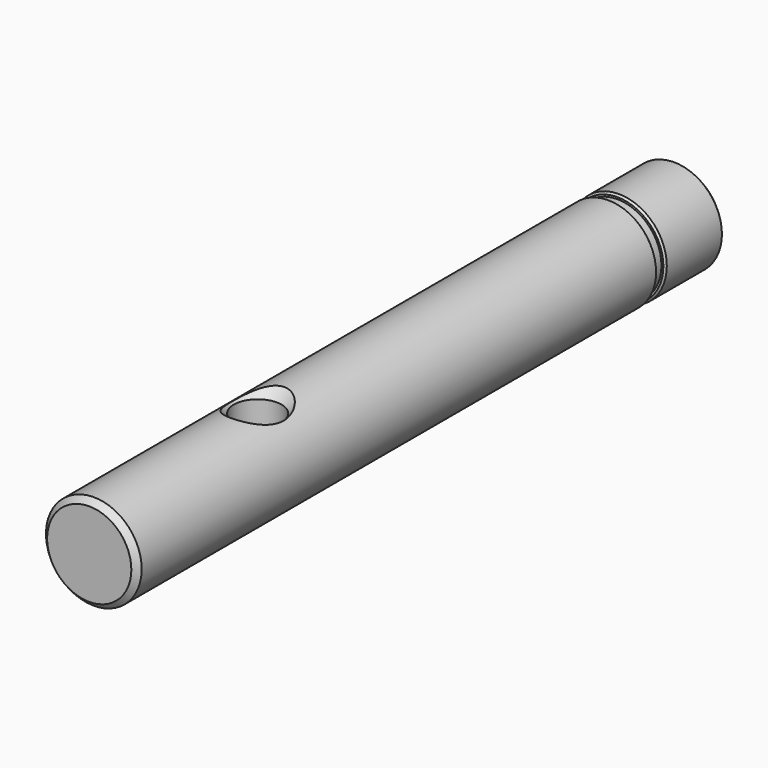
from build123d import *

# Parameters (mm, degrees)
F0_R           = 2.5
F0_R_2         = 2.3
F1_DEPTH       = 38.5
F2_SIZE        = 0.3
F5_D           = 2.5
F5_CSINK_D     = 4.5
F5_CSINK_ANGLE = 90
F6_START       = 4
F6_DEPTH       = 0.5
F7_SIZE        = 0.1


with BuildPart() as f1:
    # F0 (on Front) → F1 (new body)
    with BuildSketch(Plane.XZ):
        Circle(F0_R)
        Circle(F0_R_2, mode=Mode.SUBTRACT)
        Circle(F0_R_2)
    extrude(amount=F1_DEPTH)

    # F2
    f2_edges = [f1.edges().sort_by_distance(p)[0] for p in [
        (-2.5, -38.5, 0),
        (-2.5, 0, 0),
    ]]
    chamfer(f2_edges, length=F2_SIZE)

    # F5 (through all)
    with Locations(Plane.XY.offset(3)):
        with Locations((0, -27.5)):
            CounterSinkHole(F5_D / 2, F5_CSINK_D / 2, counter_sink_angle=F5_CSINK_ANGLE)

    # F0 (on Front) → F6 (cut)
    with BuildSketch(Plane.XZ.offset(F6_START)):
        Circle(F0_R)
        Circle(F0_R_2, mode=Mode.SUBTRACT)
    extrude(amount=F6_DEPTH, mode=Mode.SUBTRACT)

    # F7
    f7_edges = [f1.edges().sort_by_distance(p)[0] for p in [
        (-2.5, -4, 0),
        (-2.5, -4.5, 0),
    ]]
    chamfer(f7_edges, length=F7_SIZE)


solid = f1.part
